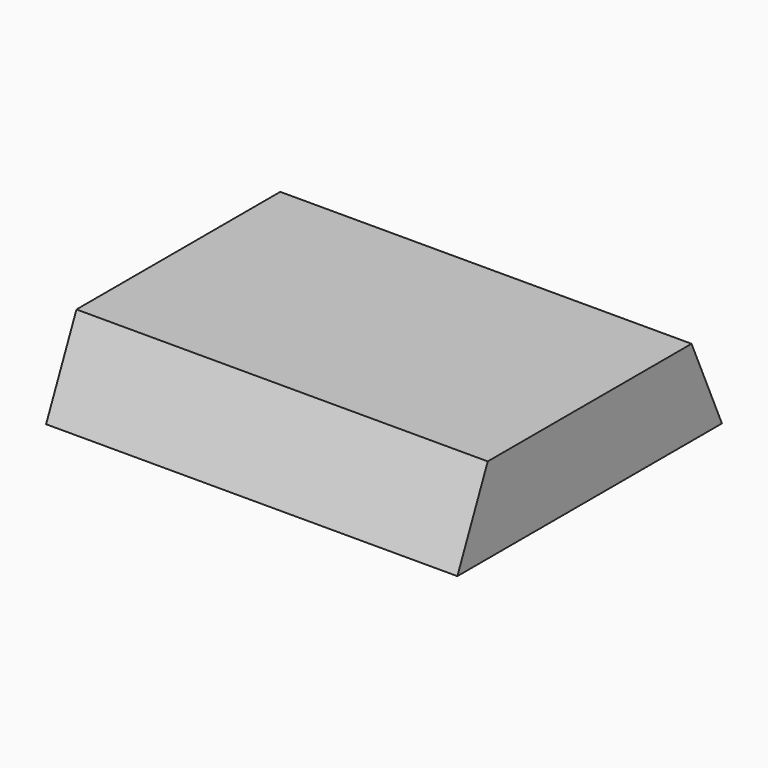
from build123d import *

# Parameters (mm, degrees)
F1_DEPTH = 63.5


with BuildPart() as f1:
    # F0 (on Right) → F1 (new body, symmetric)
    with BuildSketch(Plane.YZ):
        Polygon((-39.39677, 0), (-44.642483, 26.436871), (-56.370683, 0), align=None)
        Polygon((-27.66857, 26.436871), (-44.642483, 26.436871), (-39.39677, 0), align=None)
        Polygon((-22.625885, 1.023202), (-27.66857, 26.436871), (-39.39677, 0), (-23.079809, 0), align=None)
        Polygon((-11.351609, 26.436871), (-27.66857, 26.436871), (-22.625885, 1.023202), align=None)
        Polygon((-6.105896, 0), (-11.351609, 26.436871), (-22.625885, 1.023202), (-22.422858, 0), align=None)
        Polygon((5.622304, 26.436871), (-11.351609, 26.436871), (-6.105896, 0), align=None)
        Polygon((-22.422858, 0), (-22.625885, 1.023202), (-23.079809, 0), align=None)
        Polygon((34.011782, 26.436871), (5.622304, 26.436871), (-6.105896, 0), (45.739982, 0), align=None)
    extrude(amount=F1_DEPTH, both=True)


solid = f1.part
